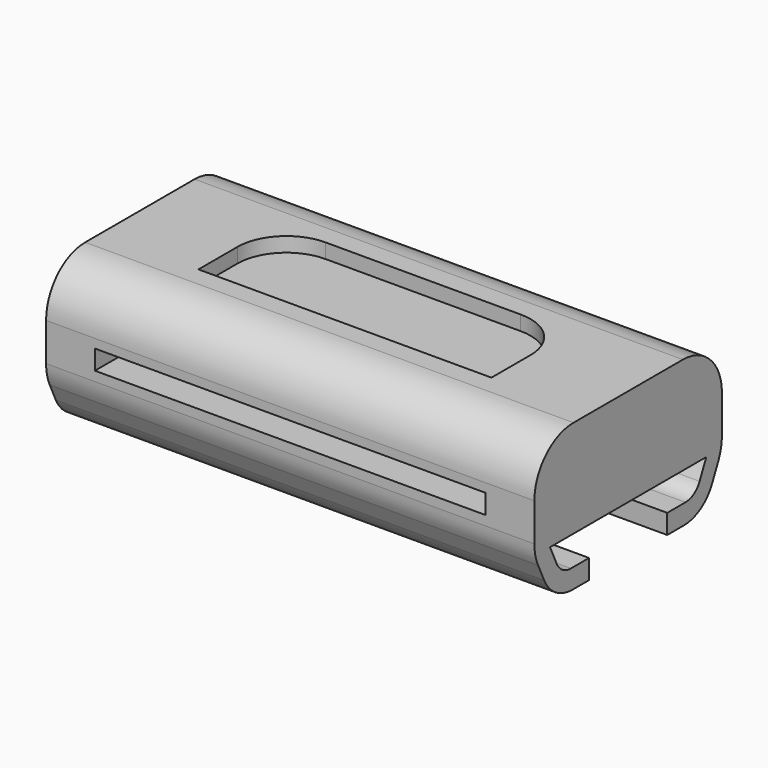
from build123d import *

# Parameters (mm, degrees)
F0_W      = 50
F0_H      = 24
F1_DEPTH  = 10
F3_DEPTH  = 50
F4_R      = 5
F5_R      = 2
F6_R      = 4
F7_W      = 40
F7_H      = 2
F8_DEPTH  = 3
F9_W      = 30
F9_H      = 10
F10_DEPTH = 1.5
F11_R     = 5


with BuildPart() as f1:
    # F0 (on Top) → F1 (new body)
    with BuildSketch(Plane.XY):
        Rectangle(F0_W, F0_H)
    extrude(amount=F1_DEPTH)

    # F2 (on face) → F3 (join, through all)
    with BuildSketch(Plane(origin=(-25, 0, 0), x_dir=(0, -1, 0), z_dir=(-1, 0, 0))):
        Polygon((-10, 0), (-12, 0), (-9.673886, -5), (-5, -5), (-5, -3), (-8.604331, -3), align=None)
        Polygon((12, 0), (10, 0), (8.604331, -3), (5, -3), (5, -5), (9.673886, -5), align=None)
    extrude(amount=-F3_DEPTH)

    # F4
    f4_edges = [f1.edges().sort_by_distance(p)[0] for p in [
        (0, 12, 10),
        (0, -12, 10),
        (0, 12, 0),
        (0, -12, 0),
    ]]
    fillet(f4_edges, radius=F4_R)

    # F5
    f5_edges = [f1.edges().sort_by_distance(p)[0] for p in [
        (0, 8.604331, -3),
        (0, -8.604331, -3),
    ]]
    fillet(f5_edges, radius=F5_R)

    # F6
    f6_edges = [f1.edges().sort_by_distance(p)[0] for p in [
        (0, 9.673886, -5),
        (0, -9.673886, -5),
    ]]
    fillet(f6_edges, radius=F6_R)

    # F7 (on face) → F8 (cut)
    with BuildSketch(Plane.XZ.offset(12)):
        with Locations((0, 3.088876)):
            Rectangle(F7_W, F7_H)
    extrude(amount=-F8_DEPTH, mode=Mode.SUBTRACT)

    # F9 (on face) → F10 (cut)
    with BuildSketch(Plane.XY.offset(10)):
        Rectangle(F9_W, F9_H)
    extrude(amount=-F10_DEPTH, mode=Mode.SUBTRACT)

    # F11
    f11_edges = [f1.edges().sort_by_distance(p)[0] for p in [
        (-15, 5, 9.25),
        (15, 5, 9.25),
    ]]
    fillet(f11_edges, radius=F11_R)


solid = f1.part
